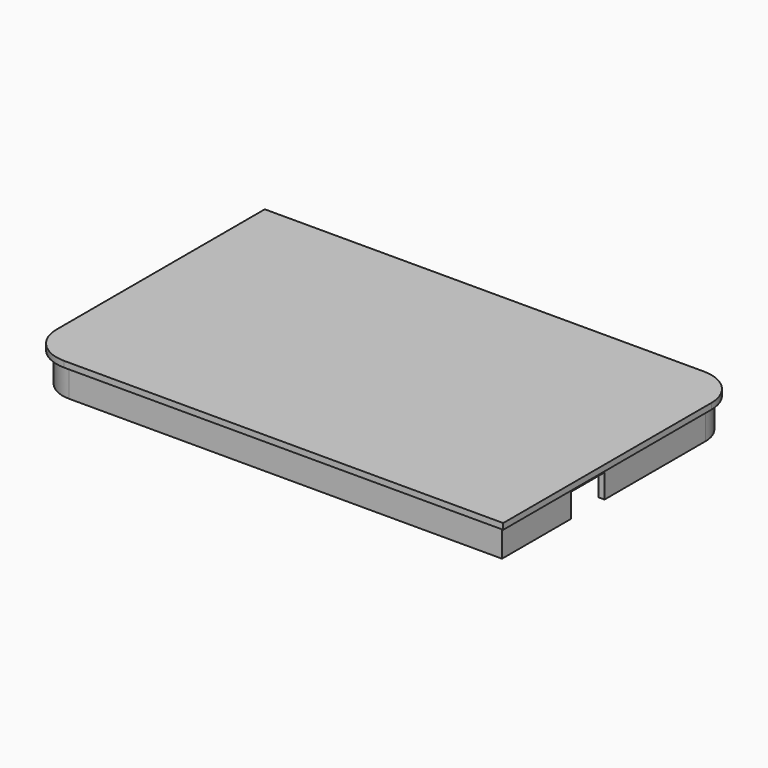
from build123d import *

# Parameters (mm, degrees)
F1_DEPTH = 1
F3_DEPTH = 5
F5_DEPTH = 5
F6_W     = 7
F6_H     = 4
F7_DEPTH = 1


with BuildPart() as f1:
    # F0 (on Top) → F1 (new body)
    with BuildSketch(Plane.XY):
        with BuildLine():
            Line((-33.65, -25), (40, -25))
            Line((40, -25), (40, 18.65))
            ThreePointArc((40, 18.65), (38.140128, 23.140128), (33.65, 25))
            Line((33.65, 25), (-40, 25))
            Line((-40, 25), (-40, -18.65))
            ThreePointArc((-40, -18.65), (-38.140128, -23.140128), (-33.65, -25))
        make_face()
    extrude(amount=F1_DEPTH)

    # F2 (on face) → F3 (join)
    with BuildSketch(Plane(origin=(0, 0, 0), x_dir=(1, 0, 0), z_dir=(0, 0, -1))):
        with BuildLine():
            Line((39, 24), (-33.65, 24))
            ThreePointArc((-33.65, 24), (-37.433021, 22.433021), (-39, 18.65))
            Line((-39, 18.65), (-39, -24))
            Line((-39, -24), (33.65, -24))
            ThreePointArc((33.65, -24), (37.433021, -22.433021), (39, -18.65))
            Line((39, -18.65), (39, 24))
        make_face()
    extrude(amount=F3_DEPTH)

    # F4 (on face) → F5 (cut)
    with BuildSketch(Plane(origin=(0, 0, -5), x_dir=(1, 0, 0), z_dir=(0, 0, -1))):
        with BuildLine():
            Line((-38, 18.65), (-38, -23))
            Line((-38, -23), (33.65, -23))
            ThreePointArc((33.65, -23), (36.725914, -21.725914), (38, -18.65))
            Line((38, -18.65), (38, 23))
            Line((38, 23), (-33.65, 23))
            ThreePointArc((-33.65, 23), (-36.725914, 21.725914), (-38, 18.65))
        make_face()
    extrude(amount=-F5_DEPTH, mode=Mode.SUBTRACT)

    # F6 (on face) → F7 (cut, through all)
    with BuildSketch(Plane.YZ.offset(39)):
        with Locations((-6, -3)):
            Rectangle(F6_W, F6_H)
    extrude(amount=-F7_DEPTH, mode=Mode.SUBTRACT)


solid = f1.part
